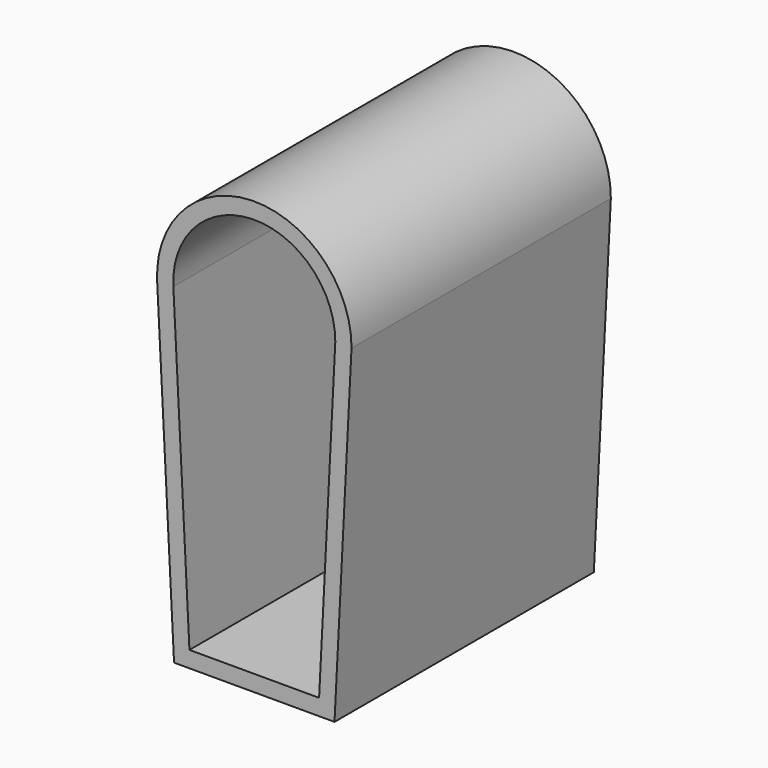
from build123d import *

# Parameters (mm, degrees)
F1_DEPTH = 1524


with BuildPart() as f1:
    # F0 (on Front) → F1 (new body)
    with BuildSketch(Plane.XZ):
        with BuildLine():
            Line((377.223866, -1016), (457.195519, 556.77584))
            ThreePointArc((457.195519, 556.77584), (-10.676544, 1015.875324), (-456.602376, 535.430992))
            Line((-456.602376, 535.430992), (-377.199802, -1016))
            Line((-377.199802, -1016), (377.223866, -1016))
        make_face()
        with BuildLine():
            ThreePointArc((-380.50198, 539.325826), (-9.74027, 939.675475), (381, 558.8))
            Line((381, 558.8), (304.8, -939.8))
            Line((304.8, -939.8), (-304.8, -939.8))
            Line((-304.8, -939.8), (-380.50198, 539.325826))
        make_face(mode=Mode.SUBTRACT)
    extrude(amount=F1_DEPTH)


solid = f1.part
